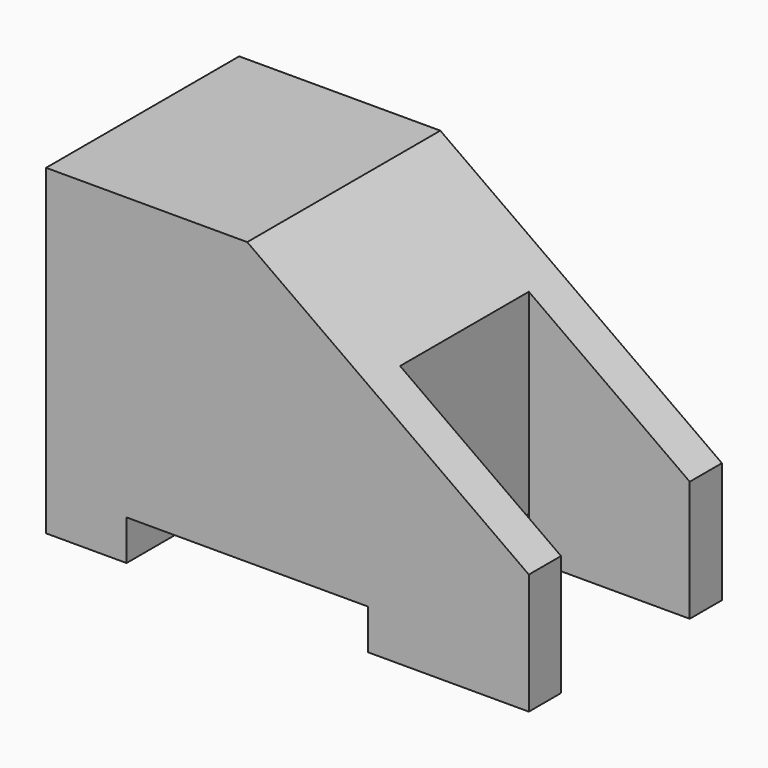
from build123d import *

# Parameters (mm, degrees)
F1_DEPTH = 20
F2_W     = 15
F2_H     = 2.5
F3_DEPTH = 15.001


with BuildPart() as f1:
    # F0 (on Top) → F1 (new body)
    with BuildSketch(Plane.XY):
        Polygon((0, 15), (0, 0), (30, 0), (30, 2.5), (20, 2.5), (20, 12.5), (30, 12.5), (30, 15), align=None)
    extrude(amount=F1_DEPTH)

    # F2 (on face) → F3 (cut, through all)
    with BuildSketch(Plane.XZ):
        with Locations((12.5, 1.25)):
            Rectangle(F2_W, F2_H)
        Polygon((12.5, 20), (30, 7.5), (30, 20), align=None)
    extrude(amount=-F3_DEPTH, mode=Mode.SUBTRACT)


solid = f1.part
